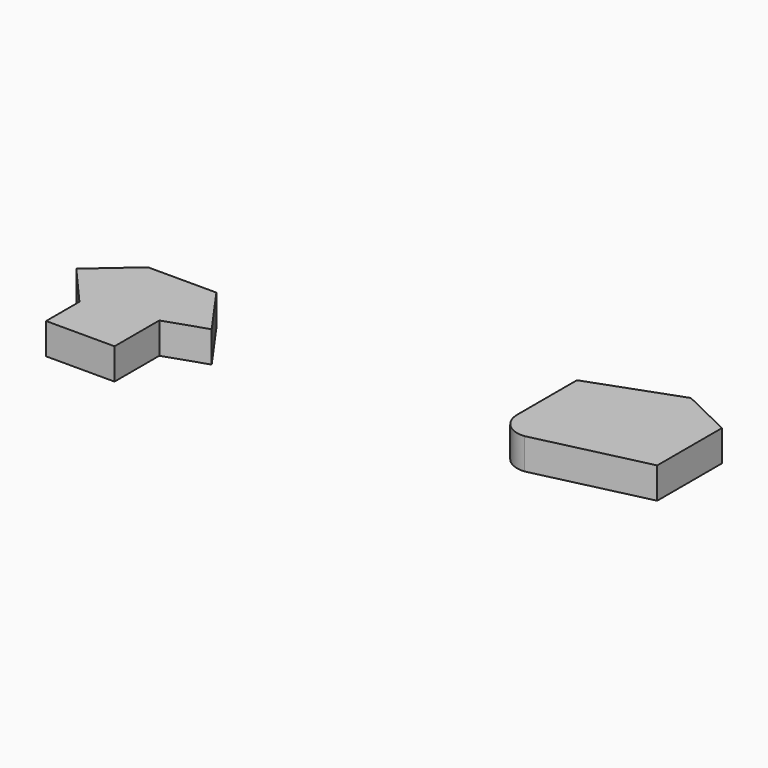
from build123d import *

# Parameters (mm, degrees)
F1_DEPTH = 25


with BuildPart() as f1:
    # F0 (on Top) → F1 (new body)
    with BuildSketch(Plane.XY):
        Polygon((-413.743477, -75.638182), (-413.743477, -109.127669), (-358.743477, -109.127669), (-358.743477, -64.127669), (-325.576793, -52.948621), (-354.470318, -12.142197), (-409.470318, -12.142197), (-443.35489, -41.75361), align=None)
        with BuildLine():
            Line((-32.378212, 62.000951), (-103.324446, 36.178634))
            Line((-103.324446, 36.178634), (-103.324446, -23.821366))
            ThreePointArc((-103.324446, -23.821366), (-96.856622, -38.548219), (-81.636425, -43.750003))
            Line((-81.636425, -43.750003), (8.363575, -22.765456))
            Line((8.363575, -22.765456), (8.363575, 42.234544))
            Line((8.363575, 42.234544), (-32.378212, 62.000951))
        make_face()
    extrude(amount=F1_DEPTH)


solid = f1.part
